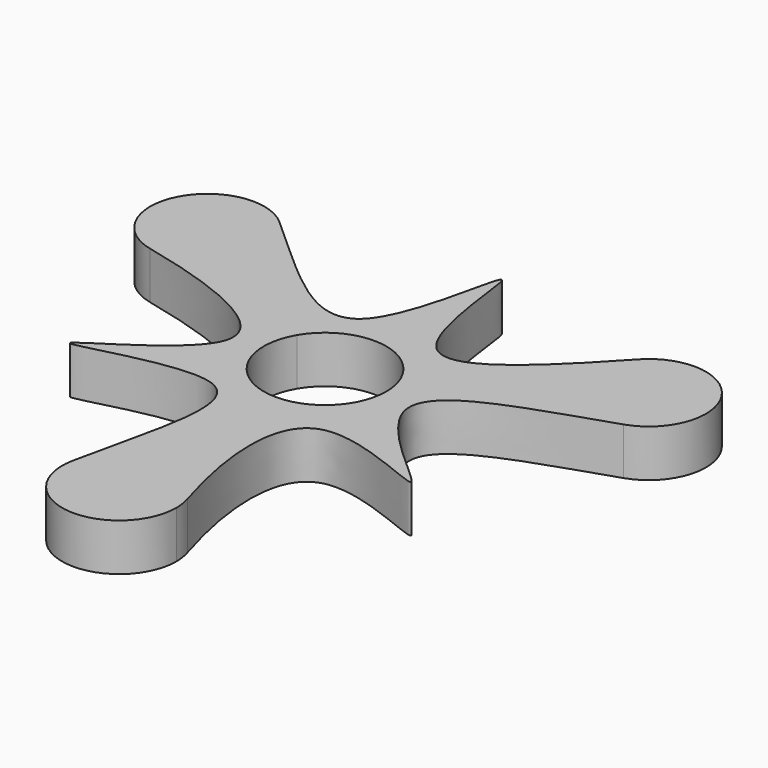
from build123d import *

# Parameters (mm, degrees)
F1_DEPTH = 7.874


with BuildPart() as f1:
    # F0 (on Top) → F1 (new body)
    with BuildSketch(Plane.XY):
        with BuildLine():
            ThreePointArc((-108.0461306941, 65.0067256422), (-107.0760833713, 67.3229523468), (-106.7450651059, 69.8121941719))
            ThreePointArc((-106.7450651059, 69.8121941719), (-107.5869808429, 73.7275067623), (-109.9638940152, 76.9506695816))
            ThreePointArc((-109.9638940152, 76.9506695816), (-124.7487674104, 74.152382213), (-118.3734414796, 60.5223377236))
            ThreePointArc((-118.3734414796, 60.5223377236), (-112.4762884355, 61.075324963), (-108.0461306941, 65.0067256422))
        make_face()
        with BuildLine():
            ThreePointArc((-109.9638940152, 76.9506695816), (-107.5869808429, 73.7275067623), (-106.7450651059, 69.8121941719))
            ThreePointArc((-106.7450651059, 69.8121941719), (-107.0760833713, 67.3229523468), (-108.0461306941, 65.0067256422))
            Line((-108.0461306941, 65.0067256421), (-88.2283560079, 53.4266609412))
            ThreePointArc((-88.2283560079, 53.4266609412), (-79.3436805797, 58.4887581192), (-70.5225803956, 53.3166718045))
            Line((-70.5225803956, 53.3166718045), (-50.562468873, 64.6496343473))
            ThreePointArc((-50.562468873, 64.6496343473), (-51.7415447862, 70.4455957779), (-49.2720868103, 75.8200879604))
            add(Edge.make_bspline(
                [(-49.2720868103, 75.8200879604), (-57.4345110755, 66.9949647245), (-75.683900109, 48.4322365837), (-76.4463570163, 97.9424705747), (-81.699360517, 48.6969085029), (-98.9628955327, 67.2323229295), (-109.9638940152, 76.9506695816)],
                knots=[0.0005903202, 0.0005903202, 0.0005903202, 0.0005903202, 0.2607250214, 0.4929244653, 0.7250149488, 1, 1, 1, 1], degree=3))
        make_face()
        with BuildLine():
            Line((-88.2283560079, 53.4266609412), (-108.0461306941, 65.0067256421))
            ThreePointArc((-108.0461306941, 65.0067256422), (-112.4762884355, 61.075324963), (-118.3734414796, 60.5223377236))
            add(Edge.make_bspline(
                [(-118.3734414796, 60.5223377236), (-106.3618571358, 57.8027173656), (-80.4376875536, 48.8023518947), (-124.153822356, 27.017384646), (-77.8219568118, 44.3438376358), (-86.0342468267, 21.64452119), (-88.9065404877, 7.4692811075)],
                knots=[0, 0, 0, 0, 0.2666826621, 0.4948332735, 0.7290523859, 1, 1, 1, 1], degree=3))
            ThreePointArc((-88.9065404877, 7.4692811075), (-85.5865129072, 12.9629725151), (-79.5346442485, 15.1026253269))
            Line((-79.5346442485, 15.1026253269), (-79.4464175338, 38.0554967821))
            ThreePointArc((-79.4464175338, 38.0554967821), (-88.2781780033, 43.2039414675), (-88.2283560079, 53.4266609412))
        make_face()
        with BuildLine():
            ThreePointArc((-32.7544678493, 69.3525609937), (-38.8066498727, 78.2218992047), (-49.2720868103, 75.8200879604))
            ThreePointArc((-49.2720868103, 75.8200879604), (-51.7415447862, 70.4455957779), (-50.562468873, 64.6496343473))
            ThreePointArc((-50.562468873, 64.6496343473), (-45.6793738793, 60.4550184123), (-39.243353431, 60.3244031395))
            ThreePointArc((-39.243353431, 60.3244031395), (-34.5449796686, 63.7934857484), (-32.7544678493, 69.3525609937))
        make_face()
        with BuildLine():
            ThreePointArc((-79.5346442485, 15.1026253269), (-85.5865129072, 12.9629725151), (-88.9065404877, 7.4692811075))
            ThreePointArc((-88.9065404877, 7.4692811075), (-80.5217940437, -3.8997566623), (-70.046256367, 5.5776956919))
            ThreePointArc((-70.046256367, 5.5776956919), (-70.1528995075, 6.9990257266), (-70.4704409481, 8.3885289689))
            ThreePointArc((-70.4704409481, 8.3885289689), (-73.9017839068, 13.2316297799), (-79.5346442485, 15.1026253269))
        make_face()
        with BuildLine():
            ThreePointArc((-39.243353431, 60.3244031395), (-45.6793738793, 60.4550184123), (-50.562468873, 64.6496343473))
            Line((-50.562468873, 64.6496343473), (-70.5225803956, 53.3166718045))
            ThreePointArc((-70.5225803956, 53.3166718045), (-69.5290426456, 50.8809031632), (-69.1903794385, 48.2721882753))
            ThreePointArc((-69.1903794385, 48.2721882753), (-72.1966990098, 41.0339719467), (-79.4464175338, 38.0554967821))
            Line((-79.4464175338, 38.0554967821), (-79.5346442485, 15.1026253269))
            ThreePointArc((-79.5346442485, 15.1026253269), (-73.9017839068, 13.2316297799), (-70.4704409481, 8.3885289689))
            add(Edge.make_bspline(
                [(-70.4704409481, 8.3885289689), (-74.0944646494, 20.1222628235), (-77.1075732731, 43.8402629289), (-38.8817586066, 22.9686442907), (-76.3812478762, 49.4537559031), (-53.340324999, 55.5836775871), (-39.243353431, 60.3244031395)],
                knots=[0.0011075884, 0.0011075884, 0.0011075884, 0.0011075884, 0.2669356975, 0.4905303086, 0.7213820271, 1, 1, 1, 1], degree=3))
        make_face()
    extrude(amount=F1_DEPTH)


solid = f1.part
